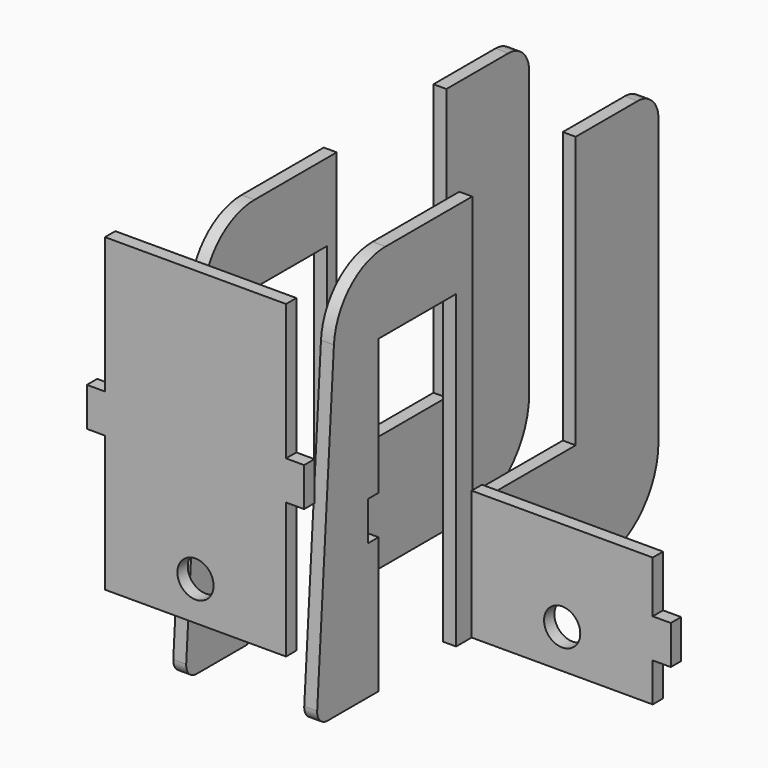
from build123d import *

# Parameters (mm, degrees)
F0_W     = 5
F0_H     = 15.1
F0_W_2   = 0.3
F1_DEPTH = 5
F2_W     = 7
F2_H     = 15
F2_R     = 7
F2_W_2   = 3
F2_W_3   = 5
F3_DEPTH = 5
F5_W     = 5
F5_H     = 15.1
F6_DEPTH = 5
F8_W     = 7
F8_H     = 15
F8_W_2   = 70
F8_H_2   = 50
F8_R     = 7
F9_DEPTH = 5


with BuildPart() as f1:
    # F0 (on Right) → F1 (new body)
    with BuildSketch(Plane.YZ):
        with BuildLine():
            Line((5, -82.45), (5, 0))
            Line((5, 0), (0, 0))
            Line((0, 0), (-36.911173, 0))
            ThreePointArc((-36.911173, 0), (-53.990775, -6.743845), (-61.855802, -23.337025))
            Line((-61.855802, -23.337025), (-69.944494, -144.667405))
            ThreePointArc((-69.944494, -144.667405), (-68.606799, -148.41592), (-64.955568, -150))
            Line((-64.955568, -150), (-40.3, -150))
            Line((-40.3, -150), (-40.3, -97.55))
            Line((-40.3, -97.55), (-45.3, -97.55))
            Line((-45.3, -97.55), (-45.3, -82.45))
            Line((-45.3, -82.45), (-40.3, -82.45))
            Line((-40.3, -82.45), (-40.3, -30))
            Line((-40.3, -30), (-2.8, -30))
            Line((-2.8, -30), (-2.8, -150))
            Line((-2.8, -150), (4.7, -150))
            Line((4.7, -150), (65, -150))
            ThreePointArc((65, -150), (86.213203, -141.213203), (95, -120))
            Line((95, -120), (95, -10))
            ThreePointArc((95, -10), (92.071068, -2.928932), (85, 0))
            Line((85, 0), (55, 0))
            Line((55, 0), (55, -105))
            Line((55, -105), (5, -105))
            Line((5, -105), (5, -97.55))
            Line((5, -97.55), (4.7, -97.55))
            Line((4.7, -97.55), (4.7, -82.45))
            Line((4.7, -82.45), (5, -82.45))
        make_face()
        with Locations((7.2, -127.55)):
            Rectangle(F0_W, F0_H, mode=Mode.SUBTRACT)
        with Locations((4.85, -90)):
            Rectangle(F0_W_2, F0_H)
    extrude(amount=F1_DEPTH)


with BuildPart() as f3:
    # F2 (on face) → F3 (new body)
    with BuildSketch(Plane.XZ.offset(-9.7)):
        with Locations((78.5, -127.5)):
            Rectangle(F2_W, F2_H)
        Polygon((75, -100), (5, -100), (5, -120), (5, -135), (5, -135.1), (5, -150), (75, -150), (75, -135), (75, -120), align=None)
        with Locations((40, -135)):
            Circle(F2_R, mode=Mode.SUBTRACT)
        with Locations((-1.5, -127.5)):
            Rectangle(F2_W_2, F2_H)
        with Locations((2.5, -127.5)):
            Rectangle(F2_W_3, F2_H)
    extrude(amount=F3_DEPTH)


with BuildPart() as f6:
    # F5 (on offset) → F6 (new body)
    with BuildSketch(Plane.YZ.offset(-50)):
        with BuildLine():
            Line((2, -30), (2, 0))
            Line((2, 0), (0, 0))
            Line((0, 0), (-37.711173, 0))
            ThreePointArc((-37.711173, 0), (-54.790775, -6.743845), (-62.655802, -23.337025))
            Line((-62.655802, -23.337025), (-70.744494, -144.667405))
            ThreePointArc((-70.744494, -144.667405), (-69.406799, -148.41592), (-65.755568, -150))
            Line((-65.755568, -150), (-41.1, -150))
            Line((-41.1, -150), (-41.1, -97.55))
            Line((-41.1, -97.55), (-46.1, -97.55))
            Line((-46.1, -97.55), (-46.1, -82.45))
            Line((-46.1, -82.45), (-41.1, -82.45))
            Line((-41.1, -82.45), (-41.1, -30))
            Line((-41.1, -30), (-2.8, -30))
            Line((-2.8, -30), (2, -30))
        make_face()
        with BuildLine():
            Line((2, -105), (2, -30))
            Line((2, -30), (-2.8, -30))
            Line((-2.8, -30), (-2.8, -150))
            Line((-2.8, -150), (3.9, -150))
            Line((3.9, -150), (65, -150))
            ThreePointArc((65, -150), (86.213203, -141.213203), (95, -120))
            Line((95, -120), (95, -10))
            ThreePointArc((95, -10), (92.071068, -2.928932), (85, 0))
            Line((85, 0), (55, 0))
            Line((55, 0), (55, -105))
            Line((55, -105), (5, -105))
            Line((5, -105), (2, -105))
        make_face()
        with Locations((6.4, -127.55)):
            Rectangle(F5_W, F5_H, mode=Mode.SUBTRACT)
    extrude(amount=F6_DEPTH)


with BuildPart() as f9:
    # F8 (on offset) → F9 (new body)
    with BuildSketch(Plane.XZ.offset(80)):
        Polygon((5, 0), (-65, 0), (-65, -52.55), (-65, -67.55), (-65, -70), (5, -70), (5, -67.55), (5, -52.55), align=None)
        with Locations((-68.5, -60.05)):
            Rectangle(F8_W, F8_H)
        with Locations((8.5, -60.05)):
            Rectangle(F8_W, F8_H)
        with Locations((-30, -95)):
            Rectangle(F8_W_2, F8_H_2)
        with Locations((-30, -105)):
            Circle(F8_R, mode=Mode.SUBTRACT)
    extrude(amount=F9_DEPTH)


solid = Compound([f1.part, f3.part, f6.part, f9.part])
